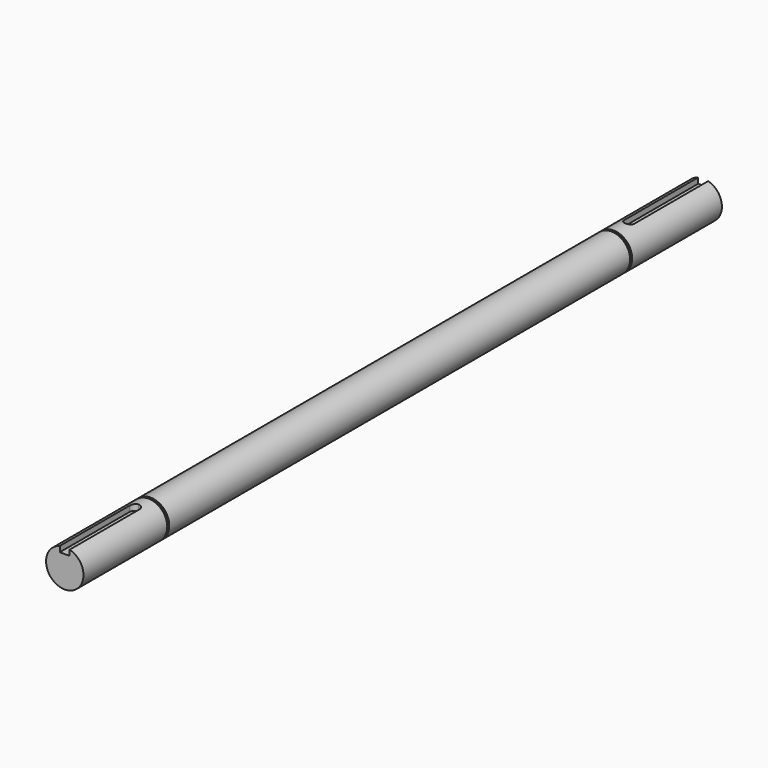
from build123d import *

# Parameters (mm, degrees)
F0_R      = 7.5
F1_DEPTH  = 320
F4_DEPTH  = 2.5
F6_R      = 7.5
F6_R_2    = 7
F7_DEPTH  = 1
F9_R      = 7.5
F9_R_2    = 7
F10_DEPTH = 1


with BuildPart() as f1:
    # F0 (on Front) → F1 (new body)
    with BuildSketch(Plane.XZ):
        Circle(F0_R)
    extrude(amount=F1_DEPTH)

    # F3 (on offset) → F4 (cut)
    with BuildSketch(Plane.XY.offset(7.5)):
        with BuildLine():
            Line((2, 0), (-2, 0))
            Line((-2, 0), (-2, -37))
            ThreePointArc((-2, -37), (-1.4142135624, -38.4142135624), (0, -39))
            ThreePointArc((0, -39), (1.4142135624, -38.4142135624), (2, -37))
            Line((2, -37), (2, 0))
        make_face()
        with BuildLine():
            Line((-2, -320), (2, -320))
            Line((2, -320), (2, -285))
            ThreePointArc((2, -285), (1.4142135624, -283.5857864376), (0, -283))
            ThreePointArc((0, -283), (-1.4142135624, -283.5857864376), (-2, -285))
            Line((-2, -285), (-2, -320))
        make_face()
    extrude(amount=-F4_DEPTH, mode=Mode.SUBTRACT)

    # F6 (on offset) → F7 (cut)
    with BuildSketch(Plane.XZ.offset(278)):
        Circle(F6_R)
        Circle(F6_R_2, mode=Mode.SUBTRACT)
    extrude(amount=-F7_DEPTH, mode=Mode.SUBTRACT)

    # F9 (on offset) → F10 (cut)
    with BuildSketch(Plane(origin=(0, -45, 0), x_dir=(-1, 0, 0), z_dir=(0, 1, 0))):
        Circle(F9_R)
        Circle(F9_R_2, mode=Mode.SUBTRACT)
    extrude(amount=-F10_DEPTH, mode=Mode.SUBTRACT)


solid = f1.part
